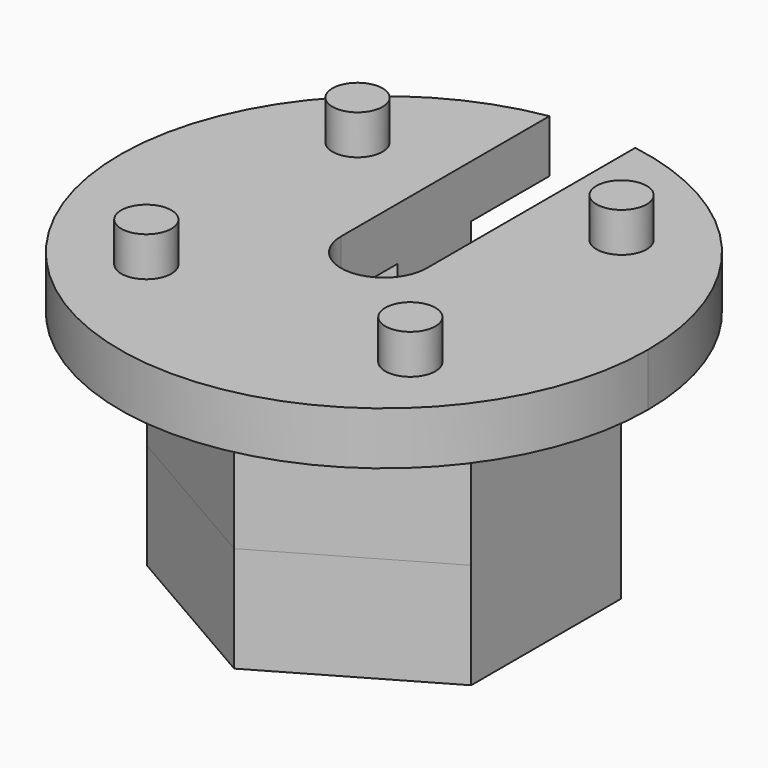
from build123d import *

# Parameters (mm, degrees)
F0_R      = 1.9
F1_DEPTH  = 4
F2_DEPTH  = 7
F4_DEPTH  = 5
F6_DEPTH  = 5
F7_R      = 3
F8_DEPTH  = 8
F9_R      = 4.8
F9_R_2    = 4.1
F10_DEPTH = 1.5
F9_R_3    = 3
F11_DEPTH = 7.5


with BuildPart() as f1:
    # F0 (on Top) → F1 (new body)
    with BuildSketch(Plane.XY):
        with BuildLine():
            ThreePointArc((-3.25, 19.7341708719), (-12.9421791055, -15.247950682), (20, 0))
            ThreePointArc((20, 0), (15.247950682, 12.9421791055), (3.25, 19.7341708719))
            Line((3.25, 19.7341708719), (3.25, 0))
            ThreePointArc((3.25, 0), (0, -3.25), (-3.25, 0))
            Line((-3.25, 0), (-3.25, 19.7341708719))
        make_face()
        with Locations((-10, -10)):
            Circle(F0_R, mode=Mode.SUBTRACT)
        with Locations((10, -10)):
            Circle(F0_R, mode=Mode.SUBTRACT)
        with Locations((-10, 10)):
            Circle(F0_R, mode=Mode.SUBTRACT)
        with Locations((10, 10)):
            Circle(F0_R, mode=Mode.SUBTRACT)
        with Locations((-10, 10)):
            Circle(F0_R)
        with Locations((10, 10)):
            Circle(F0_R)
        with Locations((10, -10)):
            Circle(F0_R)
        with Locations((-10, -10)):
            Circle(F0_R)
    extrude(amount=F1_DEPTH)

    # F0 (on Top) → F2 (join)
    with BuildSketch(Plane.XY):
        with Locations((-10, 10)):
            Circle(F0_R)
        with Locations((10, 10)):
            Circle(F0_R)
        with Locations((10, -10)):
            Circle(F0_R)
        with Locations((-10, -10)):
            Circle(F0_R)
    extrude(amount=F2_DEPTH)

    # F3 (on face) → F4 (join)
    with BuildSketch(Plane(origin=(0, 0, 0), x_dir=(1, 0, 0), z_dir=(0, 0, -1))):
        with BuildLine():
            ThreePointArc((-3.25, -5.338539126), (-3.0618621785, 5.4486236794), (6.25, 0))
            ThreePointArc((6.25, 0), (5.4486236794, -3.0618621785), (3.25, -5.338539126))
            Line((3.25, -5.338539126), (3.25, -12.3031496292))
            Line((3.25, -12.3031496292), (12.2798401255, -7.0897690021))
            Line((12.2798401255, -7.0897690021), (12.2798401255, 7.0897690021))
            Line((12.2798401255, 7.0897690021), (0, 14.1795380041))
            Line((0, 14.1795380041), (-12.2798401255, 7.0897690021))
            Line((-12.2798401255, 7.0897690021), (-12.2798401255, -7.0897690021))
            Line((-12.2798401255, -7.0897690021), (-3.25, -12.3031496292))
            Line((-3.25, -12.3031496292), (-3.25, -5.338539126))
        make_face()
    extrude(amount=F4_DEPTH)

    # F5 (on face) → F6 (join)
    with BuildSketch(Plane(origin=(0, 0, -5), x_dir=(1, 0, 0), z_dir=(0, 0, -1))):
        with BuildLine():
            ThreePointArc((-6.25, 0), (0, 6.25), (6.25, 0))
            Line((6.25, 0), (6.25, -10.5710988217))
            Line((6.25, -10.5710988217), (12.2798401255, -7.0897690021))
            Line((12.2798401255, -7.0897690021), (12.2798401255, 7.0897690021))
            Line((12.2798401255, 7.0897690021), (0, 14.1795380041))
            Line((0, 14.1795380041), (-12.2798401255, 7.0897690021))
            Line((-12.2798401255, 7.0897690021), (-12.2798401255, -7.0897690021))
            Line((-12.2798401255, -7.0897690021), (-6.25, -10.5710988217))
            Line((-6.25, -10.5710988217), (-6.25, 0))
        make_face()
    extrude(amount=F6_DEPTH)

    # F7 (on face) → F8 (join)
    with BuildSketch(Plane(origin=(0, 0, -10), x_dir=(1, 0, 0), z_dir=(0, 0, -1))):
        with BuildLine():
            ThreePointArc((-6.2500000608, 0), (-7.83e-08, 6.2500000351), (6.2499999392, 3.51e-08))
            Line((6.25, 0), (6.25, -10.5710988217))
            Line((6.2499999696, -10.571098769), (12.2798400647, -7.089768967))
            Line((12.2798400647, -7.089768967), (12.2798400647, 7.0897690371))
            Line((12.2798400647, 7.0897690371), (-6.08e-08, 14.1795380392))
            Line((-6.08e-08, 14.1795380392), (-12.2798401862, 7.0897690371))
            Line((-12.2798401862, 7.0897690371), (-12.2798401862, -7.089768967))
            Line((-12.2798401862, -7.089768967), (-6.25, -10.5710988217))
            Line((-6.25, -10.5710988217), (-6.25, 0))
        make_face()
        with BuildLine():
            ThreePointArc((-6.2500000608, 0), (-4.32e-08, -6.2499999649), (6.2499999392, 3.51e-08))
            ThreePointArc((6.2499999392, 3.51e-08), (-7.83e-08, 6.2500000351), (-6.2500000608, 0))
        make_face()
        with Locations((-6.08e-08, 3.51e-08)):
            Circle(F7_R, mode=Mode.SUBTRACT)
        with BuildLine():
            Line((6.25, -10.5710988217), (6.25, 0))
            ThreePointArc((6.2499999392, 3.51e-08), (-4.32e-08, -6.2499999649), (-6.2500000608, 0))
            Line((-6.25, 0), (-6.25, -10.5710988217))
            Line((-6.25, -10.5710988217), (-6.08e-08, -14.179537969))
            Line((-6.08e-08, -14.179537969), (6.2499999696, -10.571098769))
        make_face()
    extrude(amount=F8_DEPTH)

    # F9 (on face) → F10 (cut)
    with BuildSketch(Plane(origin=(0, 0, -18), x_dir=(1, 0, 0), z_dir=(0, 0, -1))):
        with Locations((-6.08e-08, 3.51e-08)):
            Circle(F9_R)
        with Locations((-6.08e-08, 3.51e-08)):
            Circle(F9_R_2, mode=Mode.SUBTRACT)
    extrude(amount=-F10_DEPTH, mode=Mode.SUBTRACT)

    # F9 (on face) → F11 (cut)
    with BuildSketch(Plane(origin=(0, 0, -18), x_dir=(1, 0, 0), z_dir=(0, 0, -1))):
        with Locations((-6.08e-08, 3.51e-08)):
            Circle(F9_R_2)
        with Locations((-6.08e-08, 3.51e-08)):
            Circle(F9_R_3, mode=Mode.SUBTRACT)
    extrude(amount=-F11_DEPTH, mode=Mode.SUBTRACT)


solid = f1.part
